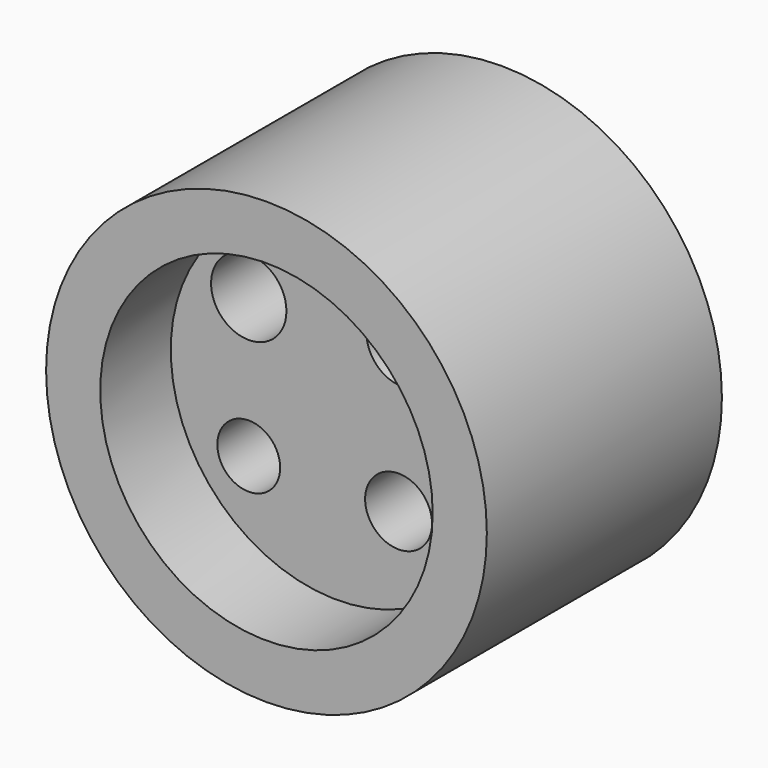
from build123d import *

# Parameters (mm, degrees)
F0_R     = 19.05
F0_R_2   = 14.351381
F1_DEPTH = 25.4
F2_R     = 14.368686
F3_DEPTH = 7.62
F4_R     = 2.715155
F4_R_2   = 3.256151
F4_R_3   = 3.059417
F4_R_4   = 2.892412
F5_DEPTH = 17.781


with BuildPart() as f1:
    # F0 (on Front) → F1 (new body)
    with BuildSketch(Plane.XZ):
        Circle(F0_R)
        Circle(F0_R_2, mode=Mode.SUBTRACT)
        Circle(F0_R_2)
    extrude(amount=F1_DEPTH)

    # F2 (on face) → F3 (cut)
    with BuildSketch(Plane.XZ.offset(25.4)):
        Circle(F2_R)
    extrude(amount=-F3_DEPTH, mode=Mode.SUBTRACT)

    # F4 (on face) → F5 (cut, through all)
    with BuildSketch(Plane.XZ.offset(17.78)):
        with Locations((-7.626853, -5.900018)):
            Circle(F4_R)
        with Locations((-7.626853, 6.187824)):
            Circle(F4_R_2)
        with Locations((5.612213, 6.763435)):
            Circle(F4_R_3)
        with Locations((5.324407, -5.900018)):
            Circle(F4_R_4)
    extrude(amount=-F5_DEPTH, mode=Mode.SUBTRACT)


solid = f1.part
